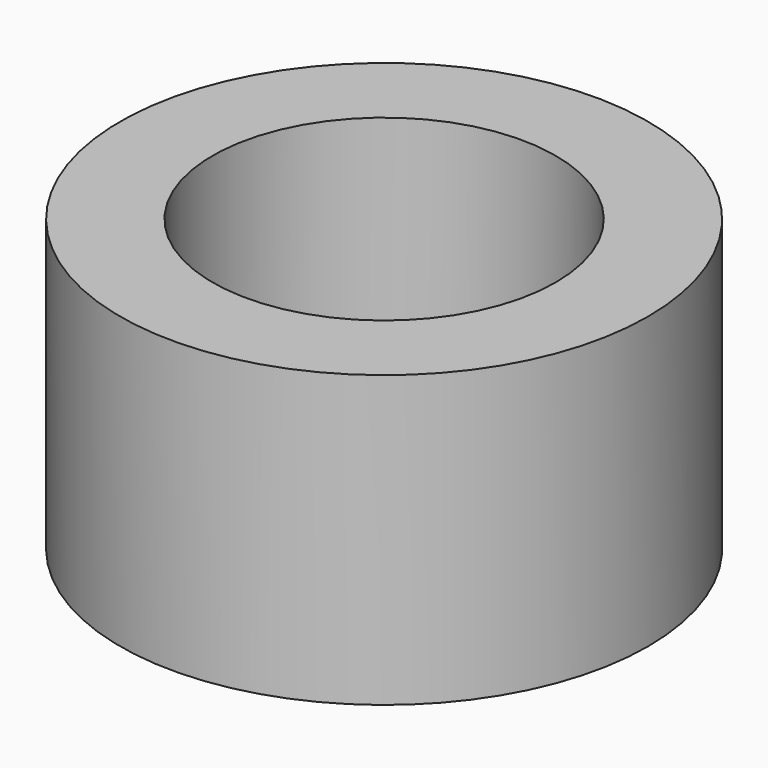
from build123d import *

# Parameters (mm, degrees)
SKETCH_R   = 2.5
SKETCH_R_2 = 1.625
PAD_DEPTH  = 2.75


with BuildPart() as part:
    # Sketch → Pad (new body)
    with BuildSketch(Plane.XY):
        Circle(SKETCH_R)
        Circle(SKETCH_R_2, mode=Mode.SUBTRACT)
    extrude(amount=PAD_DEPTH)


solid = part.part
